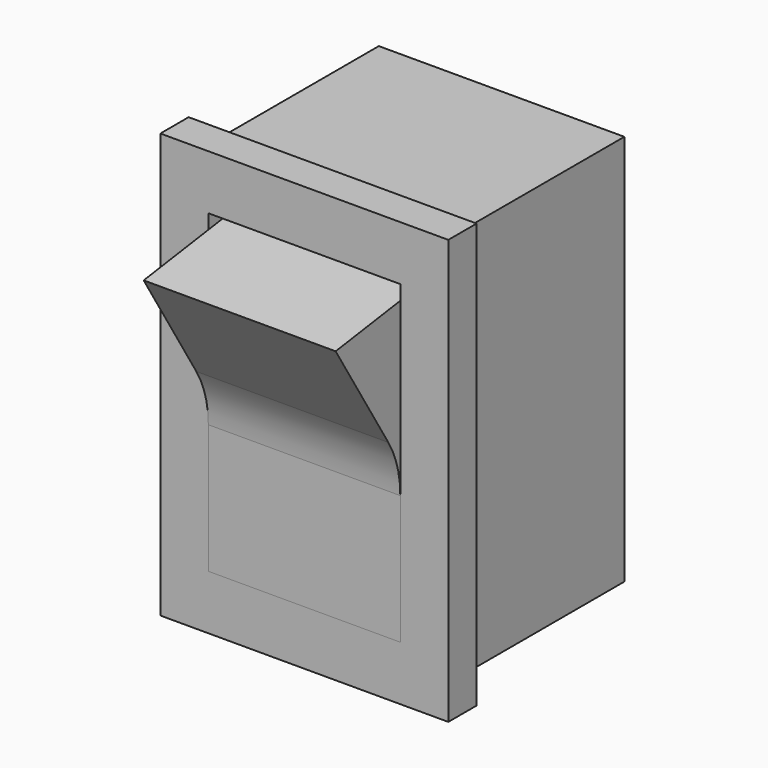
from build123d import *

# Parameters (mm, degrees)
F0_W     = 12.15
F0_H     = 19.38
F1_DEPTH = 10.45
F2_W     = 14.25
F2_H     = 21
F3_DEPTH = 1.75
F4_W     = 9.5
F4_H     = 15.6
F5_DEPTH = 5
F7_DEPTH = 9.5


with BuildPart() as f1:
    # F0 (on Front) → F1 (new body)
    with BuildSketch(Plane.XZ):
        Rectangle(F0_W, F0_H)
    extrude(amount=F1_DEPTH)

    # F2 (on face) → F3 (join)
    with BuildSketch(Plane.XZ.offset(10.45)):
        Rectangle(F2_W, F2_H)
    extrude(amount=F3_DEPTH)

    # F4 (on face) → F5 (cut)
    with BuildSketch(Plane.XZ.offset(12.2)):
        Rectangle(F4_W, F4_H)
    extrude(amount=-F5_DEPTH, mode=Mode.SUBTRACT)


with BuildPart() as f7:
    # F6 (on face) → F7 (new body)
    with BuildSketch(Plane.YZ.offset(-4.75)):
        with BuildLine():
            Line((-12.2, -1.415211), (-12.2, -7.8))
            Line((-12.2, -7.8), (-7.2, -7.8))
            Line((-7.2, -7.8), (-7.2, 7.8))
            Line((-7.2, 7.8), (-16.2, 6.5))
            Line((-16.2, 6.5), (-12.941708, 1.205276))
            ThreePointArc((-12.941708, 1.205276), (-12.388999, -0.053495), (-12.2, -1.415211))
        make_face()
    extrude(amount=F7_DEPTH)


solid = Compound([f1.part, f7.part])
